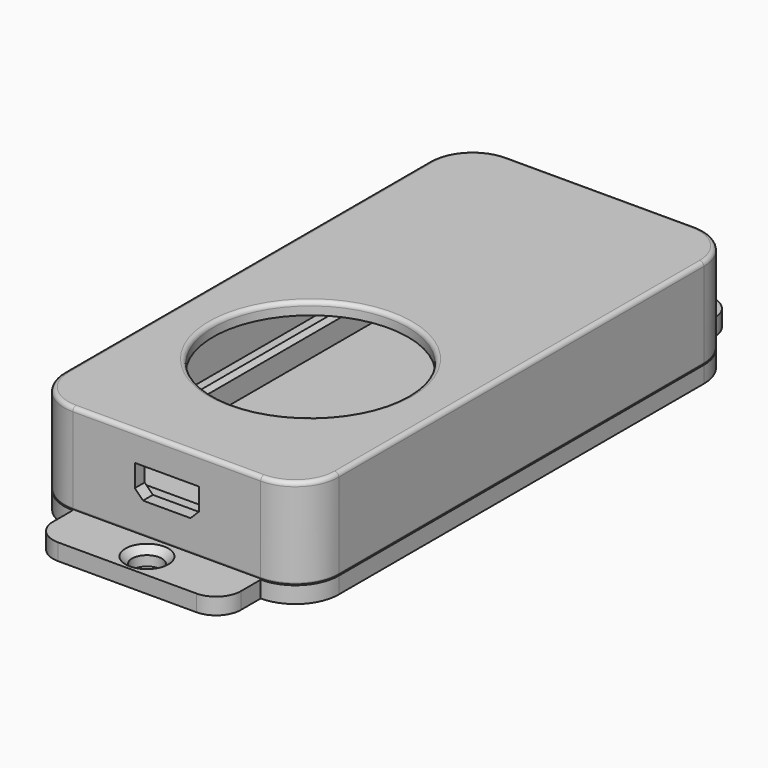
from build123d import *

# Parameters (mm, degrees)
SKETCH001_R     = 1
PAD_DEPTH       = 5
SKETCH002_R     = 11.8
PAD001_DEPTH    = 1.5
PAD002_DEPTH    = 4.5
POCKET_DEPTH    = 32.876
FILLET_R        = 0.5
FILLET001_R     = 0.25
SKETCH005_R     = 1.7
SKETCH005_R_2   = 1.8
PAD003_DEPTH    = 2
SKETCH006_R     = 1.7
PAD004_DEPTH    = 3
CHAMFER_SIZE    = 0.5
CHAMFER001_SIZE = 0.8
CHAMFER002_SIZE = 1.5


with BuildPart() as front_section:
    # Sketch001 → Pad (new body)
    with BuildSketch(Plane.XY):
        with BuildLine():
            Line((-11.375, 32.875), (11.375, 32.875))
            ThreePointArc((16.625, 27.625), (15.087311, 31.337311), (11.375, 32.875))
            Line((16.625, 27.625), (16.625, -27.625))
            ThreePointArc((11.375, -32.875), (15.087311, -31.337311), (16.625, -27.625))
            Line((11.375, -32.875), (-11.375, -32.875))
            ThreePointArc((-16.625, -27.625), (-15.087311, -31.337311), (-11.375, -32.875))
            Line((-16.625, -27.625), (-16.625, 27.625))
            ThreePointArc((-11.375, 32.875), (-15.087311, 31.337311), (-16.625, 27.625))
        make_face()
        with Locations((-11.375, 27.625)):
            Circle(SKETCH001_R, mode=Mode.SUBTRACT)
        with Locations((11.375, 27.625)):
            Circle(SKETCH001_R, mode=Mode.SUBTRACT)
        with Locations((11.375, -27.625)):
            Circle(SKETCH001_R, mode=Mode.SUBTRACT)
        with Locations((-11.375, -27.625)):
            Circle(SKETCH001_R, mode=Mode.SUBTRACT)
        with BuildLine():
            ThreePointArc((-8.875, -27.625), (-9.607233, -25.857233), (-11.375, -25.125))
            Line((-11.375, -25.125), (-15.125, -25.125))
            Line((-15.125, -25.125), (-15.125, 25.125))
            Line((-15.125, 25.125), (-11.375, 25.125))
            ThreePointArc((-11.375, 25.125), (-9.607233, 25.857233), (-8.875, 27.625))
            Line((-8.875, 27.625), (-8.875, 31.375))
            Line((-8.875, 31.375), (8.875, 31.375))
            Line((8.875, 31.375), (8.875, 27.625))
            ThreePointArc((8.875, 27.625), (9.607233, 25.857233), (11.375, 25.125))
            Line((11.375, 25.125), (15.125, 25.125))
            Line((15.125, 25.125), (15.125, -25.125))
            Line((15.125, -25.125), (11.375, -25.125))
            ThreePointArc((11.375, -25.125), (9.607233, -25.857233), (8.875, -27.625))
            Line((8.875, -27.625), (8.875, -31.375))
            Line((8.875, -31.375), (-8.875, -31.375))
            Line((-8.875, -31.375), (-8.875, -27.625))
        make_face(mode=Mode.SUBTRACT)
    extrude(amount=-PAD_DEPTH)

    # Sketch002 → Pad001 (join)
    with BuildSketch(Plane.XY):
        with BuildLine():
            Line((-11.375, 32.875), (11.375, 32.875))
            ThreePointArc((16.625, 27.625), (15.087311, 31.337311), (11.375, 32.875))
            Line((16.625, 27.625), (16.625, -27.625))
            ThreePointArc((11.375, -32.875), (15.087311, -31.337311), (16.625, -27.625))
            Line((11.375, -32.875), (-11.375, -32.875))
            ThreePointArc((-16.625, -27.625), (-15.087311, -31.337311), (-11.375, -32.875))
            Line((-16.625, -27.625), (-16.625, 27.625))
            ThreePointArc((-11.375, 32.875), (-15.087311, 31.337311), (-16.625, 27.625))
        make_face()
        with Locations((0, -11.125)):
            Circle(SKETCH002_R, mode=Mode.SUBTRACT)
    extrude(amount=PAD001_DEPTH)

    # Sketch003 → Pad002 (join)
    with BuildSketch(Plane.XY.offset(-5)):
        with BuildLine():
            Line((-11.375, 32.875), (11.375, 32.875))
            ThreePointArc((16.625, 27.625), (15.087311, 31.337311), (11.375, 32.875))
            Line((16.625, 27.625), (16.625, -27.625))
            ThreePointArc((11.375, -32.875), (15.087311, -31.337311), (16.625, -27.625))
            Line((11.375, -32.875), (-11.375, -32.875))
            ThreePointArc((-16.625, -27.625), (-15.087311, -31.337311), (-11.375, -32.875))
            Line((-16.625, -27.625), (-16.625, 27.625))
            ThreePointArc((-11.375, 32.875), (-15.087311, 31.337311), (-16.625, 27.625))
        make_face()
        with BuildLine():
            Line((-11.375, 31.375), (11.375, 31.375))
            ThreePointArc((15.125, 27.625), (14.02665, 30.27665), (11.375, 31.375))
            Line((15.125, 27.625), (15.125, -27.625))
            ThreePointArc((11.375, -31.375), (14.02665, -30.27665), (15.125, -27.625))
            Line((11.375, -31.375), (-11.375, -31.375))
            ThreePointArc((-15.125, -27.625), (-14.02665, -30.27665), (-11.375, -31.375))
            Line((-15.125, -27.625), (-15.125, 27.625))
            ThreePointArc((-11.375, 31.375), (-14.02665, 30.27665), (-15.125, 27.625))
        make_face(mode=Mode.SUBTRACT)
    extrude(amount=-PAD002_DEPTH)

    # Sketch004 → Pocket (cut, through all)
    with BuildSketch(Plane.XZ):
        Polygon((3.875, -2), (-3.875, -2), (-3.875, -4.7), (-2.875, -5.7), (2.875, -5.7), (3.875, -4.7), align=None)
    extrude(amount=POCKET_DEPTH, mode=Mode.SUBTRACT)

    # Fillet
    fillet_edges = [front_section.edges().sort_by_distance(p)[0] for p in [
        (-16.625, 0, 1.5),
        (-15.087311, 31.337311, 1.5),
        (0, 32.875, 1.5),
        (15.087311, 31.337311, 1.5),
        (16.625, 0, 1.5),
        (15.087311, -31.337311, 1.5),
        (0, -32.875, 1.5),
        (-15.087311, -31.337311, 1.5),
        (-11.8, -11.125, 1.5),
    ]]
    fillet(fillet_edges, radius=FILLET_R)

    # Fillet001
    fillet001_edges = [front_section.edges().sort_by_distance(p)[0] for p in [
        (-16.625, 0, -9.5),
        (-15.087311, 31.337311, -9.5),
        (0, 32.875, -9.5),
        (15.087311, 31.337311, -9.5),
        (16.625, 0, -9.5),
        (15.087311, -31.337311, -9.5),
        (0, -32.875, -9.5),
        (-15.087311, -31.337311, -9.5),
        (-14.02665, 30.27665, -9.5),
        (-15.125, 0, -9.5),
        (-14.02665, -30.27665, -9.5),
        (0, -31.375, -9.5),
        (14.02665, -30.27665, -9.5),
        (15.125, 0, -9.5),
        (14.02665, 30.27665, -9.5),
        (0, 31.375, -9.5),
    ]]
    fillet(fillet001_edges, radius=FILLET001_R)


with BuildPart() as rear_panel:
    # Sketch005 → Pad003 (new body)
    with BuildSketch(Plane.XY.offset(-9.5)):
        with BuildLine():
            Line((16.625, 27.625), (16.625, -27.625))
            ThreePointArc((11.375, -32.875), (15.087311, -31.337311), (16.625, -27.625))
            Line((11.375, -35.875), (11.375, -32.875))
            ThreePointArc((8.375, -38.875), (10.49632, -37.99632), (11.375, -35.875))
            Line((-8.375, -38.875), (8.375, -38.875))
            ThreePointArc((-11.375, -35.875), (-10.49632, -37.99632), (-8.375, -38.875))
            Line((-11.375, -32.875), (-11.375, -35.875))
            ThreePointArc((-16.625, -27.625), (-15.087311, -31.337311), (-11.375, -32.875))
            Line((-16.625, -27.625), (-16.625, 27.625))
            ThreePointArc((-11.375, 32.875), (-15.087311, 31.337311), (-16.625, 27.625))
            Line((-11.375, 35.875), (-11.375, 32.875))
            ThreePointArc((-8.375, 38.875), (-10.49632, 37.99632), (-11.375, 35.875))
            Line((8.375, 38.875), (-8.375, 38.875))
            ThreePointArc((11.375, 35.875), (10.49632, 37.99632), (8.375, 38.875))
            Line((11.375, 32.875), (11.375, 35.875))
            ThreePointArc((16.625, 27.625), (15.087311, 31.337311), (11.375, 32.875))
        make_face()
        with Locations((-11.375, 27.625)):
            Circle(SKETCH005_R, mode=Mode.SUBTRACT)
        with Locations((11.375, 27.625)):
            Circle(SKETCH005_R, mode=Mode.SUBTRACT)
        with Locations((11.375, -27.625)):
            Circle(SKETCH005_R, mode=Mode.SUBTRACT)
        with Locations((-11.375, -27.625)):
            Circle(SKETCH005_R, mode=Mode.SUBTRACT)
        with Locations((0, 35.875)):
            Circle(SKETCH005_R_2, mode=Mode.SUBTRACT)
        with Locations((0, -35.875)):
            Circle(SKETCH005_R_2, mode=Mode.SUBTRACT)
    extrude(amount=-PAD003_DEPTH)

    # Sketch006 → Pad004 (join)
    with BuildSketch(Plane.XY.offset(-9.5)):
        with BuildLine():
            Line((-11.375, 31), (11.375, 31))
            ThreePointArc((14.75, 27.625), (13.761485, 30.011485), (11.375, 31))
            Line((14.75, 27.625), (14.75, -27.625))
            ThreePointArc((11.375, -31), (13.761485, -30.011485), (14.75, -27.625))
            Line((11.375, -31), (-11.375, -31))
            ThreePointArc((-14.75, -27.625), (-13.761485, -30.011485), (-11.375, -31))
            Line((-14.75, -27.625), (-14.75, 27.625))
            ThreePointArc((-11.375, 31), (-13.761485, 30.011485), (-14.75, 27.625))
        make_face()
        with Locations((-11.375, 27.625)):
            Circle(SKETCH006_R, mode=Mode.SUBTRACT)
        with Locations((11.375, 27.625)):
            Circle(SKETCH006_R, mode=Mode.SUBTRACT)
        with Locations((11.375, -27.625)):
            Circle(SKETCH006_R, mode=Mode.SUBTRACT)
        with Locations((-11.375, -27.625)):
            Circle(SKETCH006_R, mode=Mode.SUBTRACT)
        with BuildLine():
            ThreePointArc((-8.375, -27.625), (-9.25368, -25.50368), (-11.375, -24.625))
            Line((-13.25, -24.625), (-11.375, -24.625))
            Line((-13.25, -24.625), (-13.25, 24.625))
            Line((-13.25, 24.625), (-11.375, 24.625))
            ThreePointArc((-11.375, 24.625), (-9.25368, 25.50368), (-8.375, 27.625))
            Line((-8.375, 27.625), (-8.375, 29))
            Line((-8.375, 29), (8.375, 29))
            Line((8.375, 29), (8.375, 27.625))
            ThreePointArc((8.375, 27.625), (9.25368, 25.50368), (11.375, 24.625))
            Line((13.25, 24.625), (11.375, 24.625))
            Line((13.25, 24.625), (13.25, -24.625))
            Line((13.25, -24.625), (11.375, -24.625))
            ThreePointArc((11.375, -24.625), (9.25368, -25.50368), (8.375, -27.625))
            Line((8.375, -27.625), (8.375, -29))
            Line((8.375, -29), (-8.375, -29))
            Line((-8.375, -29), (-8.375, -27.625))
        make_face(mode=Mode.SUBTRACT)
    extrude(amount=PAD004_DEPTH)

    # Chamfer
    chamfer_edges = [rear_panel.edges().sort_by_distance(p)[0] for p in [
        (13.25, 0, -6.5),
        (-13.25, 0, -6.5),
    ]]
    chamfer(chamfer_edges, length=CHAMFER_SIZE)

    # Chamfer001
    chamfer001_edges = [rear_panel.edges().sort_by_distance(p)[0] for p in [
        (-1.8, 35.875, -9.5),
        (-1.8, -35.875, -9.5),
    ]]
    chamfer(chamfer001_edges, length=CHAMFER001_SIZE)

    # Chamfer002
    chamfer002_edges = [rear_panel.edges().sort_by_distance(p)[0] for p in [
        (9.675, -27.625, -11.5),
        (9.675, 27.625, -11.5),
        (-13.075, 27.625, -11.5),
        (-13.075, -27.625, -11.5),
    ]]
    chamfer(chamfer002_edges, length=CHAMFER002_SIZE)


solid = Compound([front_section.part, rear_panel.part])
